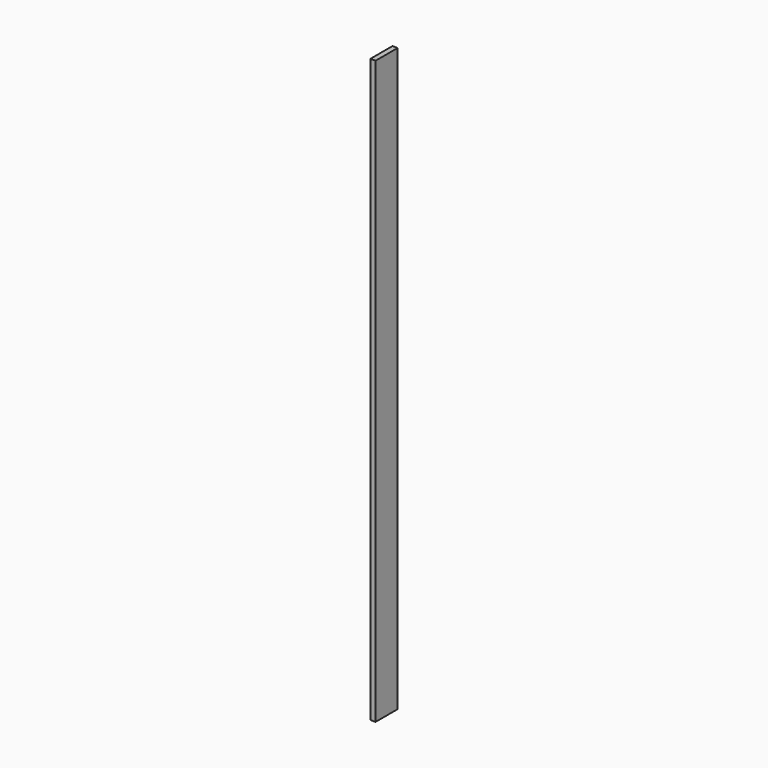
from build123d import *

# Parameters (mm, degrees)
F0_W     = 80
F0_H     = 1690
F1_DEPTH = 15
F2_R     = 2.5
F3_DEPTH = 10


with BuildPart() as f1:
    # F0 (on Right) → F1 (new body)
    with BuildSketch(Plane.YZ):
        Rectangle(F0_W, F0_H)
    extrude(amount=F1_DEPTH)

    # F2 (on face) → F3 (cut)
    with BuildSketch(Plane(origin=(0, 0, 0), x_dir=(0, -1, 0), z_dir=(-1, 0, 0))):
        with Locations((0, 785)):
            Circle(F2_R)
        with Locations((0, 285)):
            Circle(F2_R)
        with Locations((0, -285)):
            Circle(F2_R)
        with Locations((0, -785)):
            Circle(F2_R)
    extrude(amount=-F3_DEPTH, mode=Mode.SUBTRACT)


solid = f1.part
